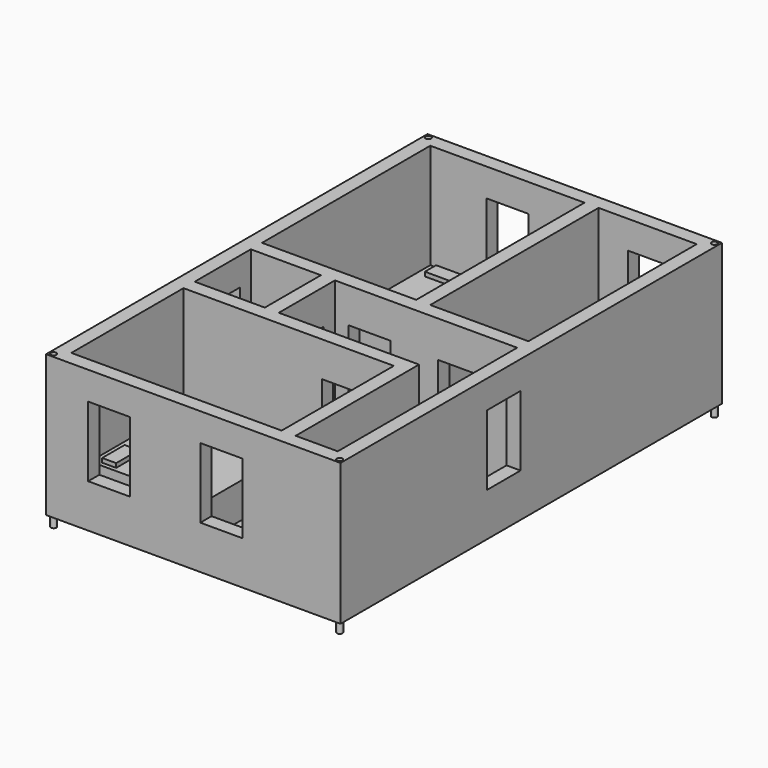
from build123d import *

# Parameters (mm, degrees)
F0_W      = 533.4
F0_H      = 863.6
F1_DEPTH  = 2.54
F2_W      = 533.4
F2_H      = 863.6
F2_W_2    = 482.6
F2_H_2    = 812.8
F3_DEPTH  = 254
F4_W      = 76.2
F4_H      = 330.2
F5_DEPTH  = 25.4
F6_W      = 177.8
F6_H      = 25.4
F6_W_2    = 279.4
F7_DEPTH  = 254
F8_W      = 25.4
F8_H      = 254
F8_H_2    = 127
F9_DEPTH  = 254
F10_W     = 76.2
F10_H     = 190.5
F10_H_2   = 187.96
F11_DEPTH = 25.4
F12_W     = 76.2
F12_H     = 190.5
F13_DEPTH = 25.4
F14_W     = 76.2
F14_H     = 190.5
F15_DEPTH = 25.4
F17_DEPTH = 25.4
F18_W     = 76.2
F18_H     = 127
F19_DEPTH = 25.4
F20_W     = 76.2
F20_H     = 127
F21_DEPTH = 25.4
F22_W     = 76.2
F22_H     = 127
F23_DEPTH = 25.4
F24_W     = 76.2
F24_H     = 127
F25_DEPTH = 25.4
F26_R     = 5.08
F27_DEPTH = 19.05
F28_R     = 5.08
F29_DEPTH = 25.4
F30_W     = 101.6
F30_H     = 203.2
F30_W_2   = 203.2
F30_H_2   = 152.4
F31_DEPTH = 63.5
F32_W     = 50.8
F32_H     = 25.4
F32_W_2   = 25.4
F32_H_2   = 50.8
F33_DEPTH = 7.62
F34_W     = 50.8
F34_H     = 101.6
F35_DEPTH = 152.4
F36_W     = 50.8
F36_H     = 25.4
F37_DEPTH = 50.8
F38_W     = 50.8
F38_H     = 25.4
F39_DEPTH = 25.4


with BuildPart() as f1:
    # F0 (on Top) → F1 (new body)
    with BuildSketch(Plane.XY):
        with Locations((266.7, 431.8)):
            Rectangle(F0_W, F0_H)
    extrude(amount=F1_DEPTH)

    # F2 (on face) → F3 (join)
    with BuildSketch(Plane.XY.offset(2.54)):
        with Locations((266.7, 431.8)):
            Rectangle(F2_W, F2_H)
        with Locations((266.7, 431.8)):
            Rectangle(F2_W_2, F2_H_2, mode=Mode.SUBTRACT)
    extrude(amount=F3_DEPTH)

    # F4 (on face) → F5 (cut)
    with BuildSketch(Plane.XY.offset(2.54)):
        with Locations((469.9, 190.5)):
            Rectangle(F4_W, F4_H)
    extrude(amount=-F5_DEPTH, mode=Mode.SUBTRACT)

    # F6 (on face) → F7 (join)
    with BuildSketch(Plane.XY.offset(2.54)):
        with Locations((419.1, 444.5)):
            Rectangle(F6_W, F6_H)
        Polygon((304.8, 431.8), (330.2, 431.8), (330.2, 457.2), (330.2, 838.2), (304.8, 838.2), (304.8, 457.2), align=None)
        with Locations((165.1, 444.5)):
            Rectangle(F6_W_2, F6_H)
    extrude(amount=F7_DEPTH)

    # F8 (on face) → F9 (join)
    with BuildSketch(Plane.XY.offset(2.54)):
        Polygon((152.4, 304.8), (25.4, 304.8), (25.4, 279.4), (406.4, 279.4), (431.8, 279.4), (431.8, 304.8), (177.8, 304.8), align=None)
        with Locations((419.1, 152.4)):
            Rectangle(F8_W, F8_H)
        with Locations((165.1, 368.3)):
            Rectangle(F8_W, F8_H_2)
    extrude(amount=F9_DEPTH)

    # F10 (on face) → F11 (cut)
    with BuildSketch(Plane.XZ.offset(-431.8)):
        with Locations((240.317534, 97.79)):
            Rectangle(F10_W, F10_H)
        with Locations((402.745839, 96.52)):
            Rectangle(F10_W, F10_H_2)
    extrude(amount=-F11_DEPTH, mode=Mode.SUBTRACT)

    # F12 (on face) → F13 (cut)
    with BuildSketch(Plane.YZ.offset(177.8)):
        with Locations((367.623325, 97.79)):
            Rectangle(F12_W, F12_H)
    extrude(amount=-F13_DEPTH, mode=Mode.SUBTRACT)

    # F14 (on face) → F15 (cut)
    with BuildSketch(Plane(origin=(0, 304.8, 0), x_dir=(-1, 0, 0), z_dir=(0, 1, 0))):
        with Locations((-314.105634, 97.79)):
            Rectangle(F14_W, F14_H)
    extrude(amount=-F15_DEPTH, mode=Mode.SUBTRACT)

    # F16 (on face) → F17 (cut)
    with BuildSketch(Plane.XZ.offset(-838.2)):
        Polygon((383.836448, 205.733197), (382.521942, 78.74), (460.036448, 78.74), (460.036448, 205.733197), align=None)
    extrude(amount=-F17_DEPTH, mode=Mode.SUBTRACT)

    # F18 (on face) → F19 (cut)
    with BuildSketch(Plane.XZ.offset(-838.2)):
        with Locations((165.1, 142.24)):
            Rectangle(F18_W, F18_H)
    extrude(amount=-F19_DEPTH, mode=Mode.SUBTRACT)

    # F20 (on face) → F21 (cut)
    with BuildSketch(Plane.YZ.offset(25.4)):
        with Locations((369.560152, 142.24)):
            Rectangle(F20_W, F20_H)
    extrude(amount=-F21_DEPTH, mode=Mode.SUBTRACT)

    # F22 (on face) → F23 (cut)
    with BuildSketch(Plane(origin=(0, 25.4, 0), x_dir=(-1, 0, 0), z_dir=(0, 1, 0))):
        with Locations((-317.5, 142.24)):
            Rectangle(F22_W, F22_H)
        with Locations((-114.3, 142.24)):
            Rectangle(F22_W, F22_H)
    extrude(amount=-F23_DEPTH, mode=Mode.SUBTRACT)

    # F24 (on face) → F25 (cut)
    with BuildSketch(Plane(origin=(508, 0, 0), x_dir=(0, -1, 0), z_dir=(-1, 0, 0))):
        with Locations((-369.560152, 142.24)):
            Rectangle(F24_W, F24_H)
    extrude(amount=-F25_DEPTH, mode=Mode.SUBTRACT)

    # F26 (on face) → F27 (join)
    with BuildSketch(Plane(origin=(0, 0, 0), x_dir=(1, 0, 0), z_dir=(0, 0, -1))):
        with Locations((7.62, -7.62)):
            Circle(F26_R)
        with Locations((525.78, -7.62)):
            Circle(F26_R)
        with Locations((525.78, -855.98)):
            Circle(F26_R)
        with Locations((7.62, -855.98)):
            Circle(F26_R)
    extrude(amount=F27_DEPTH)

    # F28 (on face) → F29 (cut)
    with BuildSketch(Plane.XY.offset(256.54)):
        with Locations((7.62, 7.62)):
            Circle(F28_R)
        with Locations((525.78, 7.62)):
            Circle(F28_R)
        with Locations((525.78, 855.98)):
            Circle(F28_R)
        with Locations((7.62, 855.98)):
            Circle(F28_R)
    extrude(amount=-F29_DEPTH, mode=Mode.SUBTRACT)

    # F30 (on face) → F31 (join)
    with BuildSketch(Plane.XY.offset(2.54)):
        with Locations((76.2, 736.6)):
            Rectangle(F30_W, F30_H)
        with Locations((457.2, 736.6)):
            Rectangle(F30_W, F30_H)
        with Locations((127, 144.306398)):
            Rectangle(F30_W_2, F30_H_2)
    extrude(amount=F31_DEPTH)

    # F32 (on face) → F33 (join)
    with BuildSketch(Plane.XY.offset(66.04)):
        with Locations((66.433271, 819.132545)):
            Rectangle(F32_W, F32_H)
        with Locations((455.950456, 819.132545)):
            Rectangle(F32_W, F32_H)
        with Locations((53.733271, 101.077922)):
            Rectangle(F32_W_2, F32_H_2)
        with Locations((53.733271, 184.012836)):
            Rectangle(F32_W_2, F32_H_2)
    extrude(amount=F33_DEPTH)

    # F34 (on face) → F35 (join)
    with BuildSketch(Plane.XY.offset(2.54)):
        with Locations((279.4, 746.542548)):
            Rectangle(F34_W, F34_H)
        with Locations((482.6, 508)):
            Rectangle(F34_W, F34_H)
        with Locations((381, 101.243105)):
            Rectangle(F34_W, F34_H)
    extrude(amount=F35_DEPTH)

    # F36 (on face) → F37 (join)
    with BuildSketch(Plane.XY.offset(2.54)):
        with Locations((60.292414, 317.5)):
            Rectangle(F36_W, F36_H)
        with BuildLine():
            add(Edge.make_bspline(
                [(60.37103, 381.865399), (27.375462, 381.865399), (43.873246, 343.765399), (60.37103, 305.665399), (76.868814, 343.765399), (93.366598, 381.865399), (60.37103, 381.865399)],
                knots=[0, 0, 0, 2.094395, 2.094395, 4.18879, 4.18879, 6.283185, 6.283185, 6.283185], degree=2, weights=[1, 0.5, 1, 0.5, 1, 0.5, 1]))
        make_face()
    extrude(amount=F37_DEPTH)

    # F38 (on face) → F39 (join)
    with BuildSketch(Plane.XY.offset(53.34)):
        with Locations((60.292414, 317.5)):
            Rectangle(F38_W, F38_H)
    extrude(amount=F39_DEPTH)


solid = f1.part
